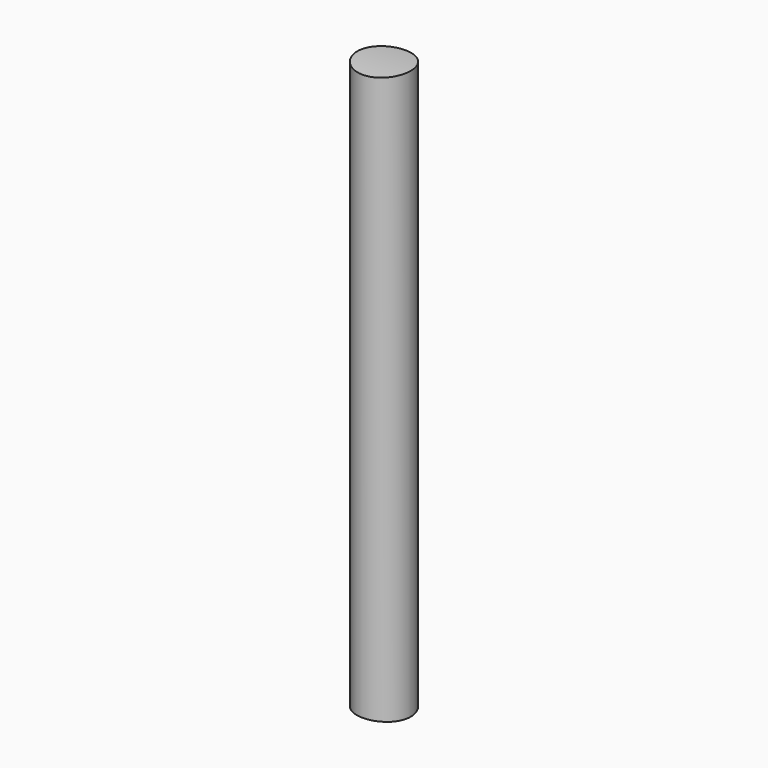
from build123d import *

# Parameters (mm, degrees)
F0_R     = 2.38125
F1_DEPTH = 50.8
F2_R     = 31.922037092
F3_DEPTH = 12.7


with BuildPart() as f1:
    # F0 (on Top) → F1 (new body)
    with BuildSketch(Plane.XY):
        Circle(F0_R)
    extrude(amount=F1_DEPTH)

    # F2 (on Right) → F3 (cut, symmetric)
    with BuildSketch(Plane.YZ):
        with Locations((0, 25.4)):
            Circle(F2_R)
        with BuildLine():
            ThreePointArc((0, 0), (-17.9605122421, 43.3605122421), (25.4, 25.4))
            ThreePointArc((25.4, 25.4), (17.9605122421, 7.4394877579), (0, 0))
        make_face(mode=Mode.SUBTRACT)
    extrude(amount=F3_DEPTH, both=True, mode=Mode.SUBTRACT)


solid = f1.part
